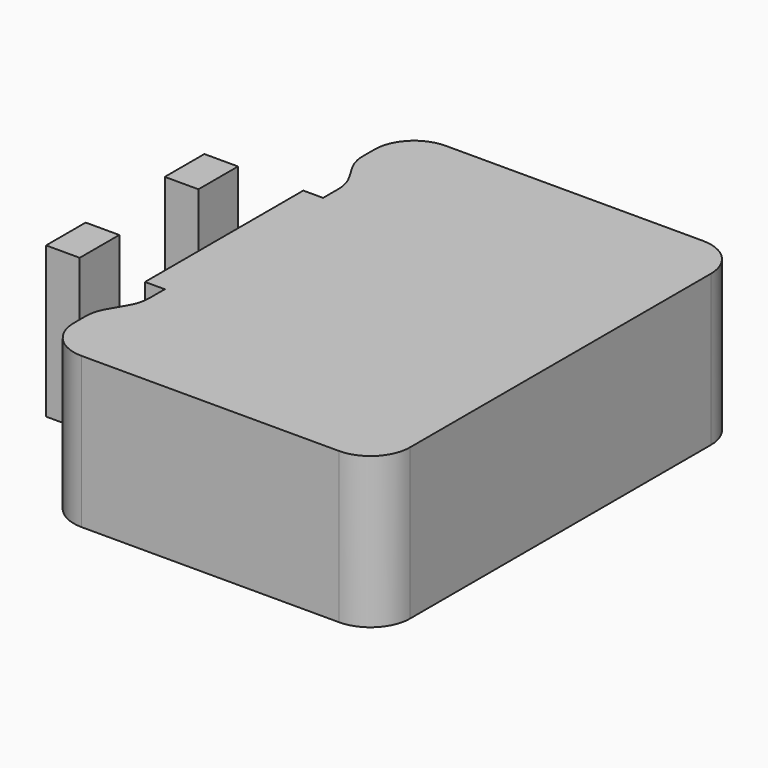
from build123d import *

# Parameters (mm, degrees)
F0_W     = 1.7
F0_H     = 2.5
F1_DEPTH = 7.62


with BuildPart() as f1:
    # F0 (on Top) → F1 (new body)
    with BuildSketch(Plane.XY):
        with BuildLine():
            Line((-6.5, -11.5), (6.5, -11.5))
            ThreePointArc((6.5, -11.5), (7.914214, -10.914214), (8.5, -9.5))
            Line((8.5, -9.5), (8.5, 9.5))
            ThreePointArc((8.5, 9.5), (7.914214, 10.914214), (6.5, 11.5))
            Line((6.5, 11.5), (-6.5, 11.5))
            ThreePointArc((-6.5, 11.5), (-7.914214, 10.914214), (-8.5, 9.5))
            Line((-8.5, 9.5), (-8.5, 8.767949))
            ThreePointArc((-8.5, 8.767949), (-8.431852, 8.250311), (-8.232051, 7.767949))
            Line((-8.232051, 7.767949), (-7.767949, 6.964102))
            ThreePointArc((-7.767949, 6.964102), (-7.568148, 6.48174), (-7.5, 5.964102))
            Line((-7.5, 5.964102), (-7.5, 5))
            Line((-7.5, 5), (-8.5, 5))
            Line((-8.5, 5), (-8.5, 0))
            Line((-8.5, 0), (-8.5, -5))
            Line((-8.5, -5), (-7.5, -5))
            Line((-7.5, -5), (-7.5, -5.964102))
            ThreePointArc((-7.5, -5.964102), (-7.568148, -6.48174), (-7.767949, -6.964102))
            Line((-7.767949, -6.964102), (-8.232051, -7.767949))
            ThreePointArc((-8.232051, -7.767949), (-8.431852, -8.250311), (-8.5, -8.767949))
            Line((-8.5, -8.767949), (-8.5, -9.5))
            ThreePointArc((-8.5, -9.5), (-7.914214, -10.914214), (-6.5, -11.5))
        make_face()
        with BuildLine():
            Line((-6.5, -11.5), (6.5, -11.5))
            ThreePointArc((6.5, -11.5), (7.914214, -10.914214), (8.5, -9.5))
            Line((8.5, -9.5), (8.5, 9.5))
            ThreePointArc((8.5, 9.5), (7.914214, 10.914214), (6.5, 11.5))
            Line((6.5, 11.5), (-6.5, 11.5))
            ThreePointArc((-6.5, 11.5), (-7.914214, 10.914214), (-8.5, 9.5))
            Line((-8.5, 9.5), (-8.5, 8.767949))
            ThreePointArc((-8.5, 8.767949), (-8.431852, 8.250311), (-8.232051, 7.767949))
            Line((-8.232051, 7.767949), (-7.767949, 6.964102))
            ThreePointArc((-7.767949, 6.964102), (-7.568148, 6.48174), (-7.5, 5.964102))
            Line((-7.5, 5.964102), (-7.5, 5))
            Line((-7.5, 5), (-8.5, 5))
            Line((-8.5, 5), (-8.5, 0))
            Line((-8.5, 0), (-8.5, -5))
            Line((-8.5, -5), (-7.5, -5))
            Line((-7.5, -5), (-7.5, -5.964102))
            ThreePointArc((-7.5, -5.964102), (-7.568148, -6.48174), (-7.767949, -6.964102))
            Line((-7.767949, -6.964102), (-8.232051, -7.767949))
            ThreePointArc((-8.232051, -7.767949), (-8.431852, -8.250311), (-8.5, -8.767949))
            Line((-8.5, -8.767949), (-8.5, -9.5))
            ThreePointArc((-8.5, -9.5), (-7.914214, -10.914214), (-6.5, -11.5))
        make_face()
        with Locations((-12.65, -3.75)):
            Rectangle(F0_W, F0_H)
        with Locations((-12.65, 3.75)):
            Rectangle(F0_W, F0_H)
    extrude(amount=F1_DEPTH)


solid = f1.part
